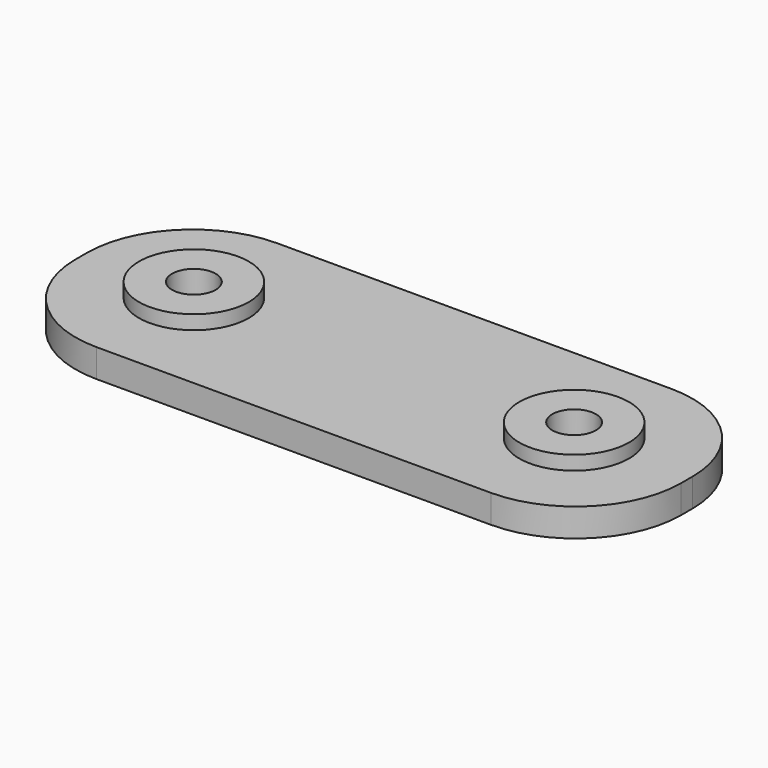
from build123d import *

# Parameters (mm, degrees)
F0_W     = 43
F0_H     = 16
F1_DEPTH = 2
F2_R     = 3.9
F3_DEPTH = 3
F5_D     = 3.1
F6_R     = 7.5


with BuildPart() as f1:
    # F0 (on Top) → F1 (new body)
    with BuildSketch(Plane.XY):
        Rectangle(F0_W, F0_H)
    extrude(amount=F1_DEPTH)

    # F2 (on Top) → F3 (join)
    with BuildSketch(Plane.XY):
        with Locations((-13.5, 0)):
            Circle(F2_R)
        with Locations((13.5, 0)):
            Circle(F2_R)
    extrude(amount=F3_DEPTH)

    # F5 (through all)
    with Locations(Plane.XY.offset(3)):
        with Locations((-13.5, 0), (13.5, 0)):
            Hole(F5_D / 2)

    # F6
    f6_edges = [f1.edges().sort_by_distance(p)[0] for p in [
        (-21.5, -8, 1),
        (21.5, -8, 1),
        (21.5, 8, 1),
        (-21.5, 8, 1),
    ]]
    fillet(f6_edges, radius=F6_R)


solid = f1.part
